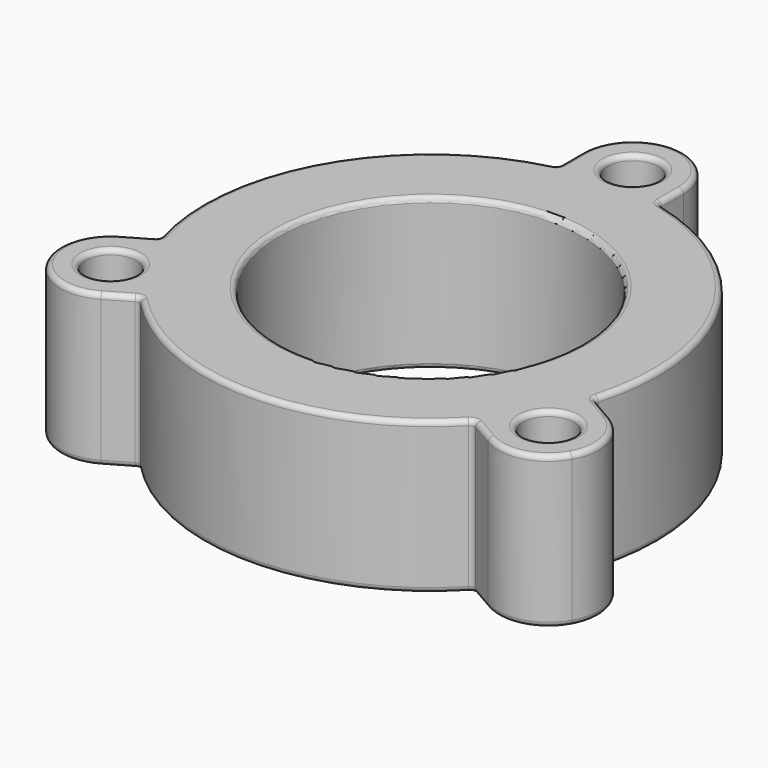
from build123d import *

# Parameters (mm, degrees)
F0_R     = 6.35
F0_R_2   = 38.1
F1_DEPTH = 38.1
F2_R     = 1.27


with BuildPart() as f1:
    # F0 (on Top) → F1 (new body)
    with BuildSketch(Plane.XY):
        with BuildLine():
            ThreePointArc((-12.7, 56.725087), (-12.970352, 55.941759), (-13.666304, 55.491933))
            ThreePointArc((-13.666304, 55.491933), (-49.493352, 28.575), (-54.890576, -15.9106))
            ThreePointArc((-54.890576, -15.9106), (-54.93216, -16.738225), (-55.475366, -17.364021))
            Line((-55.475366, -17.364021), (-61.342613, -20.751477))
            ThreePointArc((-61.342613, -20.751477), (-67.259871, -28.462998), (-65.991136, -38.1))
            ThreePointArc((-65.991136, -38.1), (-58.279615, -44.017258), (-48.642613, -42.748523))
            Line((-48.642613, -42.748523), (-42.775366, -39.361066))
            ThreePointArc((-42.775366, -39.361066), (-41.961808, -39.203533), (-41.224271, -39.581333))
            ThreePointArc((-41.224271, -39.581333), (0, -57.15), (41.224271, -39.581333))
            ThreePointArc((41.224271, -39.581333), (41.961808, -39.203533), (42.775366, -39.361066))
            Line((42.775366, -39.361066), (48.642613, -42.748523))
            ThreePointArc((48.642613, -42.748523), (58.279615, -44.017258), (65.991136, -38.1))
            ThreePointArc((65.991136, -38.1), (67.259871, -28.462998), (61.342613, -20.751477))
            Line((61.342613, -20.751477), (55.475366, -17.364021))
            ThreePointArc((55.475366, -17.364021), (54.93216, -16.738225), (54.890576, -15.9106))
            ThreePointArc((54.890576, -15.9106), (49.493352, 28.575), (13.666304, 55.491933))
            ThreePointArc((13.666304, 55.491933), (12.970352, 55.941759), (12.7, 56.725087))
            Line((12.7, 56.725087), (12.7, 63.5))
            ThreePointArc((12.7, 63.5), (8.980256, 72.480256), (0, 76.2))
            ThreePointArc((0, 76.2), (-8.980256, 72.480256), (-12.7, 63.5))
            Line((-12.7, 63.5), (-12.7, 56.725087))
        make_face()
        with Locations((-54.992613, -31.75)):
            Circle(F0_R, mode=Mode.SUBTRACT)
        Circle(F0_R_2, mode=Mode.SUBTRACT)
        with Locations((54.992613, -31.75)):
            Circle(F0_R, mode=Mode.SUBTRACT)
        with Locations((0, 63.5)):
            Circle(F0_R, mode=Mode.SUBTRACT)
    extrude(amount=F1_DEPTH)

    # F2
    f2_edges = [f1.edges().sort_by_distance(p)[0] for p in [
        (0, -57.15, 38.1),
        (41.961808, -39.203533, 38.1),
        (45.70899, -41.054794, 38.1),
        (65.991136, -38.1, 38.1),
        (58.40899, -19.057749, 38.1),
        (54.93216, -16.738225, 38.1),
        (49.493352, 28.575, 38.1),
        (12.970352, 55.941759, 38.1),
        (12.7, 60.112544, 38.1),
        (0, 76.2, 38.1),
        (-12.7, 60.112544, 38.1),
        (-12.970352, 55.941759, 38.1),
        (-49.493352, 28.575, 38.1),
        (-54.93216, -16.738225, 38.1),
        (-58.40899, -19.057749, 38.1),
        (-65.991136, -38.1, 38.1),
        (-45.70899, -41.054794, 38.1),
        (-41.961808, -39.203533, 38.1),
        (-61.342613, -31.75, 38.1),
        (-38.1, 0, 38.1),
        (48.642613, -31.75, 38.1),
        (-6.35, 63.5, 38.1),
        (0, -57.15, 0),
        (41.961808, -39.203533, 0),
        (45.70899, -41.054794, 0),
        (65.991136, -38.1, 0),
        (58.40899, -19.057749, 0),
        (54.93216, -16.738225, 0),
        (49.493352, 28.575, 0),
        (12.970352, 55.941759, 0),
        (12.7, 60.112544, 0),
        (0, 76.2, 0),
        (-12.7, 60.112544, 0),
        (-12.970352, 55.941759, 0),
        (-49.493352, 28.575, 0),
        (-54.93216, -16.738225, 0),
        (-58.40899, -19.057749, 0),
        (-65.991136, -38.1, 0),
        (-45.70899, -41.054794, 0),
        (-41.961808, -39.203533, 0),
        (-61.342613, -31.75, 0),
        (-38.1, 0, 0),
        (48.642613, -31.75, 0),
        (-6.35, 63.5, 0),
    ]]
    fillet(f2_edges, radius=F2_R)


solid = f1.part
